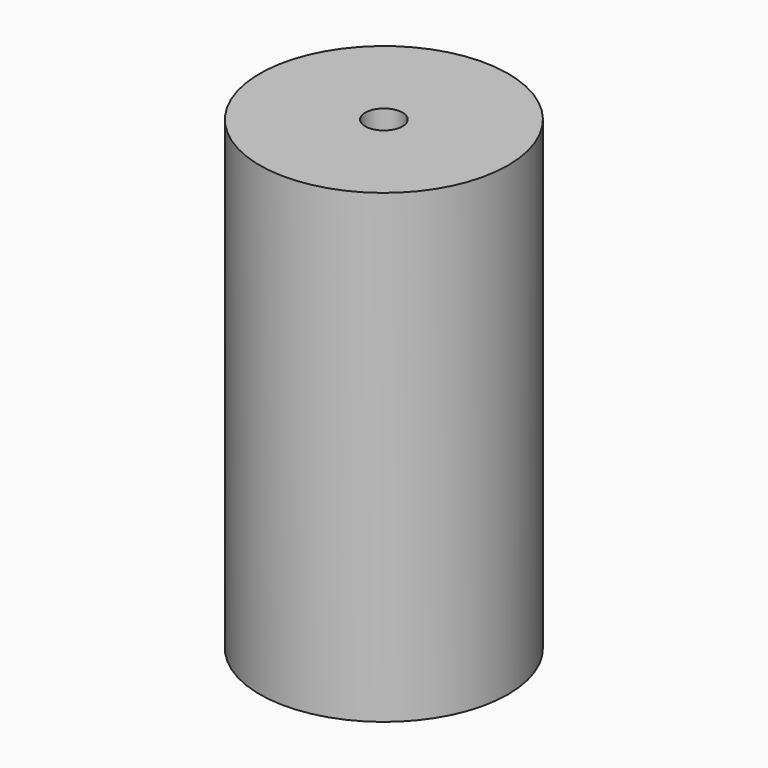
from build123d import *

# Parameters (mm, degrees)
SKETCH_R     = 8
PAD_DEPTH    = 30
SKETCH001_R  = 1.2
POCKET_DEPTH = 35


with BuildPart() as part:
    # Sketch → Pad (new body)
    with BuildSketch(Plane.XY):
        Circle(SKETCH_R)
    extrude(amount=PAD_DEPTH)

    # Sketch001 (on Face3 of Pad) → Pocket (cut)
    with BuildSketch(Plane.XY.offset(30)):
        Circle(SKETCH001_R)
    extrude(amount=-POCKET_DEPTH, mode=Mode.SUBTRACT)


solid = part.part
